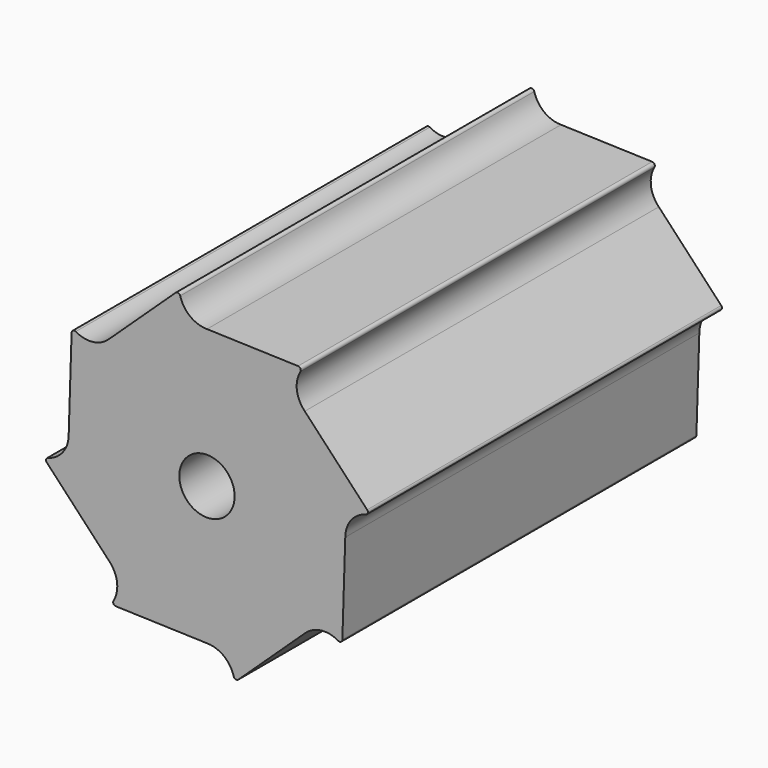
from build123d import *

# Parameters (mm, degrees)
F1_DEPTH = 203.2
F2_R     = 12.7
F3_DEPTH = 203.201
F4_R     = 1.27


with BuildPart() as f1:
    # F0 (on Front) → F1 (new body)
    with BuildSketch(Plane.XZ):
        with BuildLine():
            Line((44.901281, -44.901281), (0, 0))
            Line((0, 0), (-44.901281, -44.901281))
            ThreePointArc((-44.901281, -44.901281), (-42.148267, -49.021457), (-41.181537, -53.881537))
            ThreePointArc((-41.181537, -53.881537), (-41.955794, -58.248076), (-44.184162, -62.082202))
            Line((-44.184162, -62.082202), (0, -63.5))
            ThreePointArc((0, -63.5), (8.597941, -66.853053), (12.655826, -75.141667))
            Line((12.655826, -75.141667), (44.901281, -44.901281))
        make_face()
        with BuildLine():
            ThreePointArc((63.5, 0), (66.853053, 8.597941), (75.141667, 12.655826))
            Line((75.141667, 12.655826), (44.901281, 44.901281))
            Line((44.901281, 44.901281), (0, 0))
            Line((0, 0), (44.901281, -44.901281))
            ThreePointArc((44.901281, -44.901281), (53.351909, -41.192585), (62.082202, -44.184162))
            Line((62.082202, -44.184162), (63.5, 0))
        make_face()
        with BuildLine():
            Line((0, 0), (44.901281, 44.901281))
            ThreePointArc((44.901281, 44.901281), (41.192585, 53.351909), (44.184162, 62.082202))
            Line((44.184162, 62.082202), (0, 63.5))
            ThreePointArc((0, 63.5), (-8.597941, 66.853053), (-12.655826, 75.141667))
            Line((-12.655826, 75.141667), (-44.901281, 44.901281))
            Line((-44.901281, 44.901281), (0, 0))
        make_face()
        with BuildLine():
            Line((-44.901281, -44.901281), (0, 0))
            Line((0, 0), (-44.901281, 44.901281))
            ThreePointArc((-44.901281, 44.901281), (-53.351909, 41.192585), (-62.082202, 44.184162))
            Line((-62.082202, 44.184162), (-63.5, 0))
            ThreePointArc((-63.5, 0), (-66.853053, -8.597941), (-75.141667, -12.655826))
            Line((-75.141667, -12.655826), (-44.901281, -44.901281))
        make_face()
    extrude(amount=F1_DEPTH)

    # F2 (on face) → F3 (cut, through all)
    with BuildSketch(Plane.XZ.offset(203.2)):
        Circle(F2_R)
    extrude(amount=-F3_DEPTH, mode=Mode.SUBTRACT)

    # F4
    f4_edges = [f1.edges().sort_by_distance(p)[0] for p in [
        (-12.655826, -101.6, 75.141667),
        (44.184162, -101.6, 62.082202),
        (-62.082202, -101.6, 44.184162),
        (-75.141667, -101.6, -12.655826),
        (-44.184162, -101.6, -62.082202),
        (12.655826, -101.6, -75.141667),
        (62.082202, -101.6, -44.184162),
        (75.141667, -101.6, 12.655826),
    ]]
    fillet(f4_edges, radius=F4_R)


solid = f1.part
